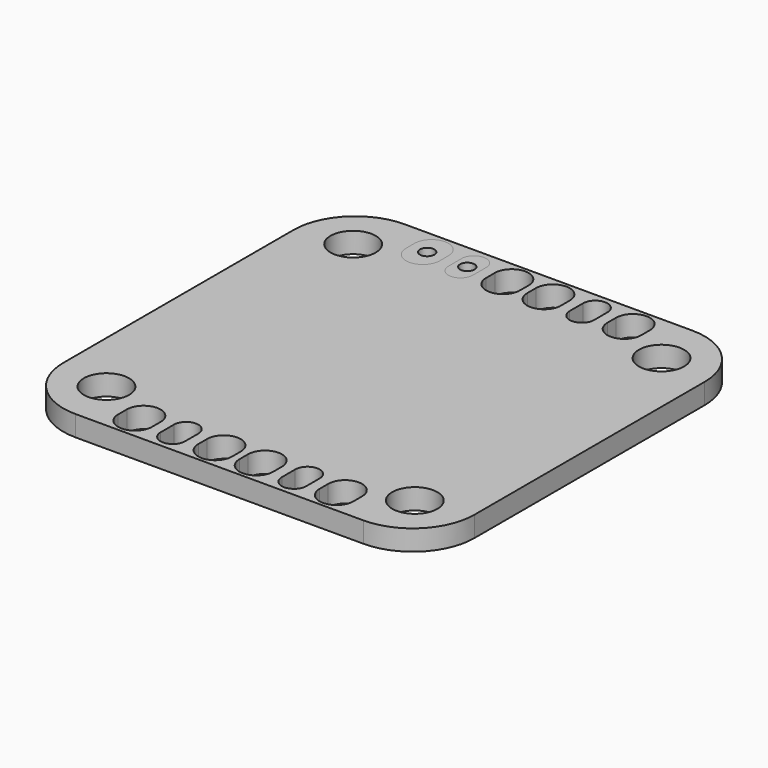
from build123d import *

# Parameters (mm, degrees)
F0_W     = 20
F0_H     = 20
F0_R     = 1.1
F1_DEPTH = 1
F2_R     = 3
F3_R     = 0.35
F4_DEPTH = 25
F5_DEPTH = 1


with BuildPart() as f1:
    # F0 (on Top) → F1 (new body)
    with BuildSketch(Plane.XY):
        Rectangle(F0_W, F0_H)
        with Locations((-7.5, -7.5)):
            Circle(F0_R, mode=Mode.SUBTRACT)
        with Locations((7.5, -7.5)):
            Circle(F0_R, mode=Mode.SUBTRACT)
        with Locations((-7.5, 7.5)):
            Circle(F0_R, mode=Mode.SUBTRACT)
        with Locations((7.5, 7.5)):
            Circle(F0_R, mode=Mode.SUBTRACT)
    extrude(amount=F1_DEPTH)

    # F2
    f2_edges = [f1.edges().sort_by_distance(p)[0] for p in [
        (-10, -10, 0.5),
        (10, -10, 0.5),
        (10, 10, 0.5),
        (-10, 10, 0.5),
    ]]
    fillet(f2_edges, radius=F2_R)

    # F3 (on face) → F4 (cut)
    with BuildSketch(Plane.XY.offset(1)):
        with BuildLine():
            ThreePointArc((-4.0780374549, 9.0123321861), (-4.9, 9.8342947312), (-5.7219625451, 9.0123321861))
            Line((-5.7219625451, 9.0123321861), (-5.7219625451, 8.4876678139))
            ThreePointArc((-5.7219625451, 8.4876678139), (-4.9, 7.6657052688), (-4.0780374549, 8.4876678139))
            Line((-4.0780374549, 8.4876678139), (-4.0780374549, 9.0123321861))
        make_face()
        with Locations((-4.9, 8.75)):
            Circle(F3_R, mode=Mode.SUBTRACT)
        with BuildLine():
            Line((-0.1780374549, 8.4876678139), (-0.1780374549, 9.0123321861))
            ThreePointArc((-0.1780374549, 9.0123321861), (-1, 9.8342947312), (-1.8219625451, 9.0123321861))
            Line((-1.8219625451, 9.0123321861), (-1.8219625451, 8.4876678139))
            ThreePointArc((-1.8219625451, 8.4876678139), (-1, 7.6657052688), (-0.1780374549, 8.4876678139))
        make_face()
        with Locations((-1, 8.75)):
            Circle(F3_R, mode=Mode.SUBTRACT)
        with BuildLine():
            Line((0.1780374549, 9.0123321861), (0.1780374549, 8.4876678139))
            ThreePointArc((0.1780374549, 8.4876678139), (1, 7.6657052688), (1.8219625451, 8.4876678139))
            Line((1.8219625451, 8.4876678139), (1.8219625451, 9.0123321861))
            ThreePointArc((1.8219625451, 9.0123321861), (1, 9.8342947312), (0.1780374549, 9.0123321861))
        make_face()
        with Locations((1, 8.75)):
            Circle(F3_R, mode=Mode.SUBTRACT)
        with BuildLine():
            Line((5.7219625451, 8.4876678139), (5.7219625451, 9.0123321861))
            ThreePointArc((5.7219625451, 9.0123321861), (4.9, 9.8342947312), (4.0780374549, 9.0123321861))
            Line((4.0780374549, 9.0123321861), (4.0780374549, 8.4876678139))
            ThreePointArc((4.0780374549, 8.4876678139), (4.9, 7.6657052688), (5.7219625451, 8.4876678139))
        make_face()
        with Locations((4.9, 8.75)):
            Circle(F3_R, mode=Mode.SUBTRACT)
        with BuildLine():
            ThreePointArc((4.0780374549, -9.0123321861), (4.9, -9.8342947312), (5.7219625451, -9.0123321861))
            Line((5.7219625451, -9.0123321861), (5.7219625451, -8.4876678139))
            ThreePointArc((5.7219625451, -8.4876678139), (4.9, -7.6657052688), (4.0780374549, -8.4876678139))
            Line((4.0780374549, -8.4876678139), (4.0780374549, -9.0123321861))
        make_face()
        with Locations((4.9, -8.75)):
            Circle(F3_R, mode=Mode.SUBTRACT)
        with BuildLine():
            Line((1.8219625451, -9.0123321861), (1.8219625451, -8.4876678139))
            ThreePointArc((1.8219625451, -8.4876678139), (1, -7.6657052688), (0.1780374549, -8.4876678139))
            Line((0.1780374549, -8.4876678139), (0.1780374549, -9.0123321861))
            ThreePointArc((0.1780374549, -9.0123321861), (1, -9.8342947312), (1.8219625451, -9.0123321861))
        make_face()
        with Locations((1, -8.75)):
            Circle(F3_R, mode=Mode.SUBTRACT)
        with BuildLine():
            ThreePointArc((-0.1780374549, -8.4876678139), (-1, -7.6657052688), (-1.8219625451, -8.4876678139))
            Line((-1.8219625451, -8.4876678139), (-1.8219625451, -9.0123321861))
            ThreePointArc((-1.8219625451, -9.0123321861), (-1, -9.8342947312), (-0.1780374549, -9.0123321861))
            Line((-0.1780374549, -9.0123321861), (-0.1780374549, -8.4876678139))
        make_face()
        with Locations((-1, -8.75)):
            Circle(F3_R, mode=Mode.SUBTRACT)
        with BuildLine():
            Line((-5.7219625451, -8.4876678139), (-5.7219625451, -9.0123321861))
            ThreePointArc((-5.7219625451, -9.0123321861), (-4.9, -9.8342947312), (-4.0780374549, -9.0123321861))
            Line((-4.0780374549, -9.0123321861), (-4.0780374549, -8.4876678139))
            ThreePointArc((-4.0780374549, -8.4876678139), (-4.9, -7.6657052688), (-5.7219625451, -8.4876678139))
        make_face()
        with Locations((-4.9, -8.75)):
            Circle(F3_R, mode=Mode.SUBTRACT)
        with BuildLine():
            ThreePointArc((-2.3564959411, 9.1567868367), (-2.95, 9.7502908956), (-3.5435040589, 9.1567868367))
            Line((-3.5435040589, 9.1567868367), (-3.5435040589, 8.3432131633))
            ThreePointArc((-3.5435040589, 8.3432131633), (-2.95, 7.7497091044), (-2.3564959411, 8.3432131633))
            Line((-2.3564959411, 8.3432131633), (-2.3564959411, 9.1567868367))
        make_face()
        with Locations((-2.95, 8.75)):
            Circle(F3_R, mode=Mode.SUBTRACT)
        with BuildLine():
            Line((3.5435040589, 8.3432131633), (3.5435040589, 9.1567868367))
            ThreePointArc((3.5435040589, 9.1567868367), (2.95, 9.7502908956), (2.3564959411, 9.1567868367))
            Line((2.3564959411, 9.1567868367), (2.3564959411, 8.3432131633))
            ThreePointArc((2.3564959411, 8.3432131633), (2.95, 7.7497091044), (3.5435040589, 8.3432131633))
        make_face()
        with Locations((2.95, 8.75)):
            Circle(F3_R, mode=Mode.SUBTRACT)
        with BuildLine():
            ThreePointArc((2.3564959411, -9.1567868367), (2.95, -9.7502908956), (3.5435040589, -9.1567868367))
            Line((3.5435040589, -9.1567868367), (3.5435040589, -8.3432131633))
            ThreePointArc((3.5435040589, -8.3432131633), (2.95, -7.7497091044), (2.3564959411, -8.3432131633))
            Line((2.3564959411, -8.3432131633), (2.3564959411, -9.1567868367))
        make_face()
        with Locations((2.95, -8.75)):
            Circle(F3_R, mode=Mode.SUBTRACT)
        with BuildLine():
            Line((-2.3564959411, -9.1567868367), (-2.3564959411, -8.3432131633))
            ThreePointArc((-2.3564959411, -8.3432131633), (-2.95, -7.7497091044), (-3.5435040589, -8.3432131633))
            Line((-3.5435040589, -8.3432131633), (-3.5435040589, -9.1567868367))
            ThreePointArc((-3.5435040589, -9.1567868367), (-2.95, -9.7502908956), (-2.3564959411, -9.1567868367))
        make_face()
        with Locations((-2.95, -8.75)):
            Circle(F3_R, mode=Mode.SUBTRACT)
        with Locations((-4.9, 8.75)):
            Circle(F3_R)
        with Locations((-2.95, 8.75)):
            Circle(F3_R)
        with Locations((-1, 8.75)):
            Circle(F3_R)
        with Locations((1, 8.75)):
            Circle(F3_R)
        with Locations((2.95, 8.75)):
            Circle(F3_R)
        with Locations((4.9, 8.75)):
            Circle(F3_R)
        with Locations((4.9, -8.75)):
            Circle(F3_R)
        with Locations((2.95, -8.75)):
            Circle(F3_R)
        with Locations((1, -8.75)):
            Circle(F3_R)
        with Locations((-1, -8.75)):
            Circle(F3_R)
        with Locations((-2.95, -8.75)):
            Circle(F3_R)
        with Locations((-4.9, -8.75)):
            Circle(F3_R)
    extrude(amount=-F4_DEPTH, mode=Mode.SUBTRACT)


with BuildPart() as f5:
    # F3 (on face) → F5 (new body)
    with BuildSketch(Plane.XY.offset(1)):
        with BuildLine():
            ThreePointArc((-4.0780374549, 9.0123321861), (-4.9, 9.8342947312), (-5.7219625451, 9.0123321861))
            Line((-5.7219625451, 9.0123321861), (-5.7219625451, 8.4876678139))
            ThreePointArc((-5.7219625451, 8.4876678139), (-4.9, 7.6657052688), (-4.0780374549, 8.4876678139))
            Line((-4.0780374549, 8.4876678139), (-4.0780374549, 9.0123321861))
        make_face()
        with Locations((-4.9, 8.75)):
            Circle(F3_R, mode=Mode.SUBTRACT)
    extrude(amount=-F5_DEPTH)


with BuildPart() as f5b:
    # F3 (on face) → F5, piece 2 (new body)
    with BuildSketch(Plane.XY.offset(1)):
        with BuildLine():
            ThreePointArc((-2.3564959411, 9.1567868367), (-2.95, 9.7502908956), (-3.5435040589, 9.1567868367))
            Line((-3.5435040589, 9.1567868367), (-3.5435040589, 8.3432131633))
            ThreePointArc((-3.5435040589, 8.3432131633), (-2.95, 7.7497091044), (-2.3564959411, 8.3432131633))
            Line((-2.3564959411, 8.3432131633), (-2.3564959411, 9.1567868367))
        make_face()
        with Locations((-2.95, 8.75)):
            Circle(F3_R, mode=Mode.SUBTRACT)
    extrude(amount=-F5_DEPTH)


solid = Compound([f1.part, f5.part, f5b.part])
